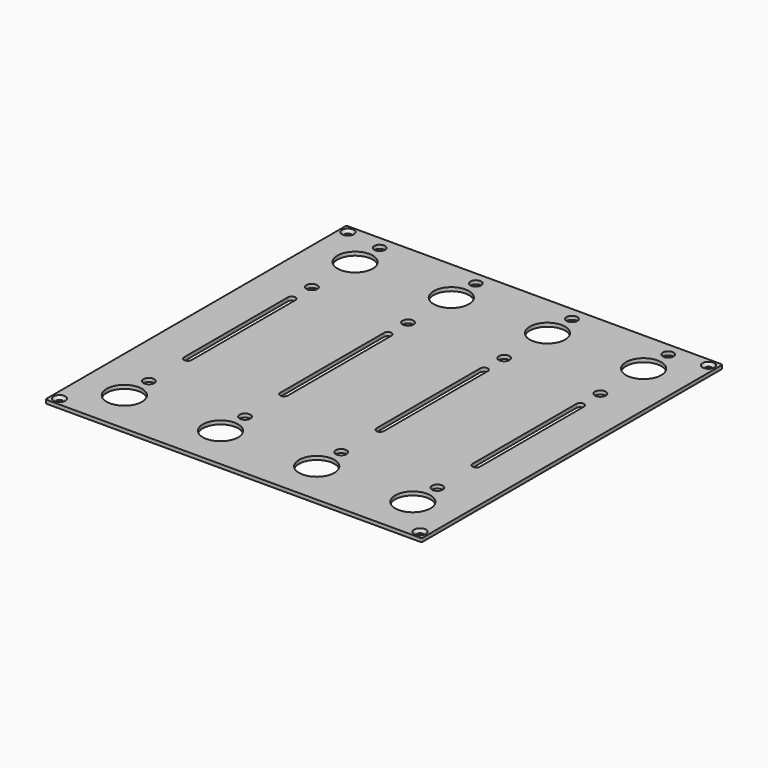
from build123d import *

# Parameters (mm, degrees)
PAD_DEPTH        = 1
POCKET_DEPTH     = 0.001
HOLE_D           = 1.75
HOLE_CSINK_D     = 3.3
HOLE_CSINK_ANGLE = 90
SKETCH007_R      = 4.9
HOLE005_DEPTH    = 1.001
SKETCH008_R      = 1.5
HOLE006_DEPTH    = 1.001
SKETCH009_R      = 4.9
HOLE007_DEPTH    = 1.001
SKETCH010_R      = 1.5
HOLE008_DEPTH    = 1.001
POCKET001_DEPTH  = 1.001
SKETCH012_R      = 1.5
HOLE009_DEPTH    = 1.001


with BuildPart() as part:
    # Sketch → Pad (new body)
    with BuildSketch(Plane.XY):
        with BuildLine():
            Line((-51.8, 52.175), (51.8, 52.175))
            ThreePointArc((52.175, 51.8), (52.065165, 52.065165), (51.8, 52.175))
            Line((52.175, 51.8), (52.175, -51.8))
            ThreePointArc((51.8, -52.175), (52.065165, -52.065165), (52.175, -51.8))
            Line((51.8, -52.175), (-51.8, -52.175))
            ThreePointArc((-52.175, -51.8), (-52.065165, -52.065165), (-51.8, -52.175))
            Line((-52.175, -51.8), (-52.175, 51.8))
            ThreePointArc((-51.8, 52.175), (-52.065165, 52.065165), (-52.175, 51.8))
        make_face()
    extrude(amount=-PAD_DEPTH)

    # Sketch002 → Pocket (cut, through all)
    with BuildSketch(Plane.XY.offset(-4.8)):
        with BuildLine():
            Line((-45, 50.175), (45, 50.175))
            ThreePointArc((45, 50.175), (45.353553, 50.321447), (45.5, 50.675))
            ThreePointArc((45.5, 50.675), (45.353553, 51.028553), (45, 51.175))
            Line((-45, 51.175), (45, 51.175))
            ThreePointArc((-45, 51.175), (-45.353553, 51.028553), (-45.5, 50.675))
            ThreePointArc((-45.5, 50.675), (-45.353553, 50.321447), (-45, 50.175))
        make_face()
        with BuildLine():
            Line((-45, -51.175), (45, -51.175))
            ThreePointArc((45, -51.175), (45.353553, -51.028553), (45.5, -50.675))
            ThreePointArc((45.5, -50.675), (45.353553, -50.321447), (45, -50.175))
            Line((-45, -50.175), (45, -50.175))
            ThreePointArc((-45, -50.175), (-45.353553, -50.321447), (-45.5, -50.675))
            ThreePointArc((-45.5, -50.675), (-45.353553, -51.028553), (-45, -51.175))
        make_face()
        with BuildLine():
            Line((51.175, -45), (51.175, 45))
            ThreePointArc((51.175, 45), (51.028553, 45.353553), (50.675, 45.5))
            ThreePointArc((50.675, 45.5), (50.321447, 45.353553), (50.175, 45))
            Line((50.175, -45), (50.175, 45))
            ThreePointArc((50.175, -45), (50.321447, -45.353553), (50.675, -45.5))
            ThreePointArc((50.675, -45.5), (51.028553, -45.353553), (51.175, -45))
        make_face()
        with BuildLine():
            Line((-50.175, -45), (-50.175, 45))
            ThreePointArc((-50.175, 45), (-50.321447, 45.353553), (-50.675, 45.5))
            ThreePointArc((-50.675, 45.5), (-51.028553, 45.353553), (-51.175, 45))
            Line((-51.175, -45), (-51.175, 45))
            ThreePointArc((-51.175, -45), (-51.028553, -45.353553), (-50.675, -45.5))
            ThreePointArc((-50.675, -45.5), (-50.321447, -45.353553), (-50.175, -45))
        make_face()
    extrude(amount=-POCKET_DEPTH, mode=Mode.SUBTRACT)

    # Hole (through all)
    with Locations(Plane.XY):
        with Locations((-50, 50), (50, 50), (50, -50), (-50, -50)):
            CounterSinkHole(HOLE_D / 2, HOLE_CSINK_D / 2, counter_sink_angle=HOLE_CSINK_ANGLE)

    # Sketch007 → Hole005 (cut, through all)
    with BuildSketch(Plane.XY):
        with Locations((-40.005, -40.005)):
            Circle(SKETCH007_R)
        with Locations((-13.335, -40.005)):
            Circle(SKETCH007_R)
        with Locations((13.335, -40.005)):
            Circle(SKETCH007_R)
        with Locations((40.005, -40.005)):
            Circle(SKETCH007_R)
    extrude(amount=-HOLE005_DEPTH, mode=Mode.SUBTRACT)

    # Sketch008 → Hole006 (cut, through all)
    with BuildSketch(Plane.XY):
        with Locations((-40.005, -31.505)):
            Circle(SKETCH008_R)
        with Locations((-13.335, -31.505)):
            Circle(SKETCH008_R)
        with Locations((13.335, -31.505)):
            Circle(SKETCH008_R)
        with Locations((40.005, -31.505)):
            Circle(SKETCH008_R)
    extrude(amount=-HOLE006_DEPTH, mode=Mode.SUBTRACT)

    # Sketch009 → Hole007 (cut, through all)
    with BuildSketch(Plane.XY):
        with Locations((-40.005, 40.005)):
            Circle(SKETCH009_R)
        with Locations((-13.335, 40.005)):
            Circle(SKETCH009_R)
        with Locations((13.335, 40.005)):
            Circle(SKETCH009_R)
        with Locations((40.005, 40.005)):
            Circle(SKETCH009_R)
    extrude(amount=-HOLE007_DEPTH, mode=Mode.SUBTRACT)

    # Sketch010 → Hole008 (cut, through all)
    with BuildSketch(Plane.XY):
        with Locations((-40.005, 48.505)):
            Circle(SKETCH010_R)
        with Locations((-13.335, 48.505)):
            Circle(SKETCH010_R)
        with Locations((13.335, 48.505)):
            Circle(SKETCH010_R)
        with Locations((40.005, 48.505)):
            Circle(SKETCH010_R)
    extrude(amount=-HOLE008_DEPTH, mode=Mode.SUBTRACT)

    # Sketch011 → Pocket001 (cut, through all)
    with BuildSketch(Plane.XY):
        with BuildLine():
            ThreePointArc((-38.955, 18), (-40.005, 19.05), (-41.055, 18))
            Line((-41.055, 18), (-41.055, -18))
            ThreePointArc((-41.055, -18), (-40.005, -19.05), (-38.955, -18))
            Line((-38.955, 18), (-38.955, -18))
        make_face()
        with BuildLine():
            ThreePointArc((-12.285, 18), (-13.335, 19.05), (-14.385, 18))
            Line((-14.385, 18), (-14.385, -18))
            ThreePointArc((-14.385, -18), (-13.335, -19.05), (-12.285, -18))
            Line((-12.285, 18), (-12.285, -18))
        make_face()
        with BuildLine():
            ThreePointArc((14.385, 18), (13.335, 19.05), (12.285, 18))
            Line((12.285, 18), (12.285, -18))
            ThreePointArc((12.285, -18), (13.335, -19.05), (14.385, -18))
            Line((14.385, 18), (14.385, -18))
        make_face()
        with BuildLine():
            ThreePointArc((41.055, 18), (40.005, 19.05), (38.955, 18))
            Line((38.955, 18), (38.955, -18))
            ThreePointArc((38.955, -18), (40.005, -19.05), (41.055, -18))
            Line((41.055, 18), (41.055, -18))
        make_face()
    extrude(amount=-POCKET001_DEPTH, mode=Mode.SUBTRACT)

    # Sketch012 → Hole009 (cut, through all)
    with BuildSketch(Plane.XY):
        with Locations((-40.005, 25)):
            Circle(SKETCH012_R)
        with Locations((-13.335, 25)):
            Circle(SKETCH012_R)
        with Locations((13.335, 25)):
            Circle(SKETCH012_R)
        with Locations((40.005, 25)):
            Circle(SKETCH012_R)
    extrude(amount=-HOLE009_DEPTH, mode=Mode.SUBTRACT)


solid = part.part
